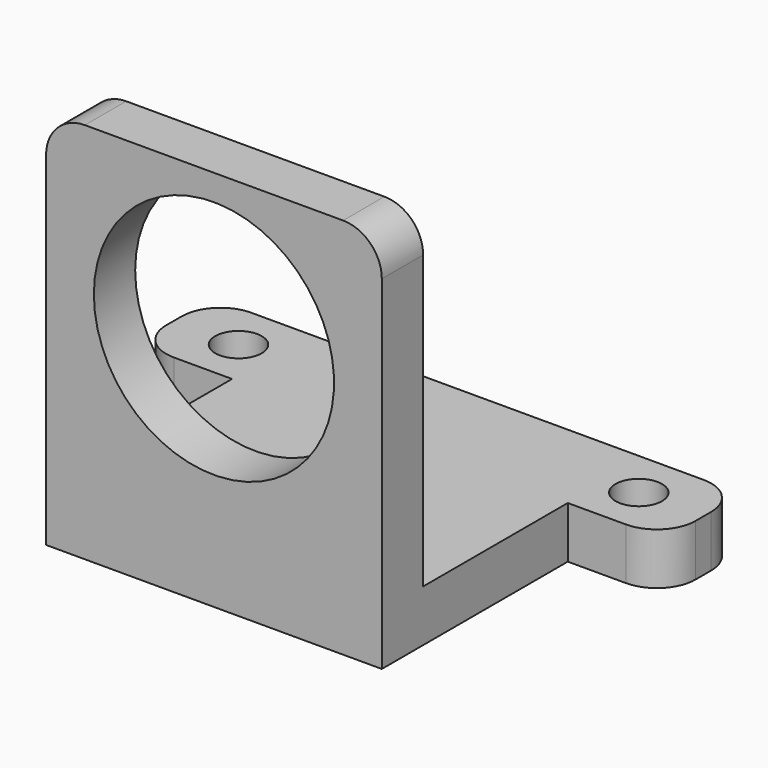
from build123d import *

# Parameters (mm, degrees)
F0_R     = 1.8
F0_W     = 26
F0_H     = 14
F1_DEPTH = 4
F0_H_2   = 4
F2_DEPTH = 29.6
F3_R     = 9.3
F4_DEPTH = 4
F5_R     = 3


with BuildPart() as f1:
    # F0 (on Top) → F1 (new body)
    with BuildSketch(Plane.XY):
        Polygon((0, 7.5), (-41, 7.5), (-41, 0), (-33.5, 0), (-7.5, 0), (0, 0), align=None)
        with Locations((-36, 3.75)):
            Circle(F0_R, mode=Mode.SUBTRACT)
        with Locations((-5, 3.75)):
            Circle(F0_R, mode=Mode.SUBTRACT)
        with Locations((-20.5, -7)):
            Rectangle(F0_W, F0_H)
    extrude(amount=F1_DEPTH)

    # F0 (on Top) → F2 (join)
    with BuildSketch(Plane.XY):
        with Locations((-20.5, -16)):
            Rectangle(F0_W, F0_H_2)
    extrude(amount=F2_DEPTH)

    # F3 (on face) → F4 (cut, through all)
    with BuildSketch(Plane(origin=(0, -14, 0), x_dir=(-1, 0, 0), z_dir=(0, 1, 0))):
        with Locations((20.5, 18.3)):
            Circle(F3_R)
    extrude(amount=-F4_DEPTH, mode=Mode.SUBTRACT)

    # F5
    f5_edges = [f1.edges().sort_by_distance(p)[0] for p in [
        (0, 0, 2),
        (0, 7.5, 2),
        (-41, 0, 2),
        (-41, 7.5, 2),
        (-33.5, -16, 29.6),
        (-7.5, -16, 29.6),
    ]]
    fillet(f5_edges, radius=F5_R)


solid = f1.part
